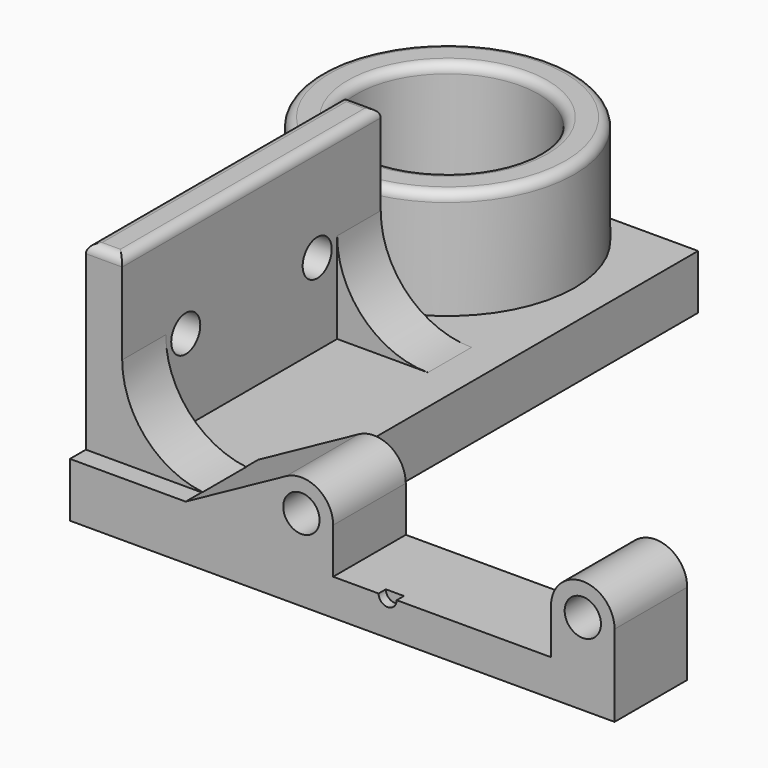
from build123d import *

# Parameters (mm, degrees)
SKETCH_R        = 2
PAD_DEPTH       = 10
POCKET004_DEPTH = 1
SKETCH002_W     = 18
SKETCH002_H     = 6
PAD002_DEPTH    = 54
POCKET005_DEPTH = 1
SKETCH003_R     = 14
PAD003_DEPTH    = 18
SKETCH004_R     = 10
POCKET_DEPTH    = 18.001
SKETCH001_W     = 4
SKETCH001_H     = 20
PAD001_DEPTH    = 35.6
SKETCH005_R     = 2
POCKET001_DEPTH = 4
SKETCH006_R     = 2
POCKET002_DEPTH = 4
PAD004_DEPTH    = 6
PAD005_DEPTH    = 6
FILLET_R        = 1


with BuildPart() as part:
    # Sketch → Pad (new body)
    with BuildSketch(Plane.XZ):
        with BuildLine():
            Line((60, 0), (0, 0))
            Line((0, 0), (0, 6))
            Line((12.75, 6), (0, 6))
            Line((12.75, 6), (23.817129, 12.068867))
            ThreePointArc((29, 9), (27.283249, 12.011648), (23.817129, 12.068867))
            Line((29, 9), (29, 4))
            Line((29, 4), (53, 4))
            Line((53, 9), (53, 4))
            ThreePointArc((60, 9), (56.5, 12.5), (53, 9))
            Line((60, 9), (60, 0))
        make_face()
        with Locations((56.5, 9)):
            Circle(SKETCH_R, mode=Mode.SUBTRACT)
        with Locations((25.5, 9)):
            Circle(SKETCH_R, mode=Mode.SUBTRACT)
    extrude(amount=PAD_DEPTH)

    # Sketch007 (on Face14 of Pad) → Pocket004 (cut)
    with BuildSketch(Plane.XZ.offset(10)):
        with BuildLine():
            ThreePointArc((34, 4), (35, 3), (36, 4))
            Line((34, 4), (36, 4))
        make_face()
    extrude(amount=-POCKET004_DEPTH, mode=Mode.SUBTRACT)

    # Sketch002 (on Face13 of Pad) → Pad002 (join)
    with BuildSketch(Plane(origin=(0, 0, 0), x_dir=(1, 0, 0), z_dir=(0, 1, 0))):
        with Locations((9, -3)):
            Rectangle(SKETCH002_W, SKETCH002_H)
    extrude(amount=PAD002_DEPTH)

    # Sketch008 (on Face19 of Pad002) → Pocket005 (cut)
    with BuildSketch(Plane(origin=(0, 0, 0), x_dir=(0, 0, -1), z_dir=(-1, 0, 0))):
        with BuildLine():
            Line((-6, -9), (-6, -11))
            ThreePointArc((-6, -11), (-5, -10), (-6, -9))
        make_face()
    extrude(amount=-POCKET005_DEPTH, mode=Mode.SUBTRACT)

    # Sketch003 (on Face21 of Pad002) → Pad003 (join)
    with BuildSketch(Plane(origin=(0, 0, 0), x_dir=(1, 0, 0), z_dir=(0, 0, -1))):
        with Locations((0, -42)):
            Circle(SKETCH003_R)
    extrude(amount=-PAD003_DEPTH)

    # Sketch004 (on Face21 of Pad002) → Pocket (cut, through all)
    with BuildSketch(Plane(origin=(0, 0, 0), x_dir=(1, 0, 0), z_dir=(0, 0, -1))):
        with Locations((0, -42)):
            Circle(SKETCH004_R)
    extrude(amount=-POCKET_DEPTH, mode=Mode.SUBTRACT)

    # Sketch001 (on Face14 of Pad) → Pad001 (join)
    with BuildSketch(Plane.XZ.offset(7.8)):
        with Locations((2, 16)):
            Rectangle(SKETCH001_W, SKETCH001_H)
    extrude(amount=-PAD001_DEPTH)

    # Sketch005 (on Face26 of Pad001) → Pocket001 (cut)
    with BuildSketch(Plane(origin=(0, 0, 0), x_dir=(0, 0, -1), z_dir=(-1, 0, 0))):
        with Locations((-15, -0.95)):
            Circle(SKETCH005_R)
    extrude(amount=-POCKET001_DEPTH, mode=Mode.SUBTRACT)

    # Sketch006 (on Face26 of Pad001) → Pocket002 (cut)
    with BuildSketch(Plane(origin=(0, 0, 0), x_dir=(0, 0, -1), z_dir=(-1, 0, 0))):
        with Locations((-15, -19.05)):
            Circle(SKETCH006_R)
    extrude(amount=-POCKET002_DEPTH, mode=Mode.SUBTRACT)

    # Sketch009 (on Face25 of Pad001) → Pad004 (join)
    with BuildSketch(Plane.XZ.offset(7.8)):
        with BuildLine():
            Line((4, 16), (4, 6))
            Line((4, 6), (14, 6))
            ThreePointArc((4, 16), (6.928932, 8.928932), (14, 6))
        make_face()
    extrude(amount=-PAD004_DEPTH)

    # Sketch010 (on Face20 of Pad001) → Pad005 (join)
    with BuildSketch(Plane(origin=(0, 27.8, 0), x_dir=(1, 0, 0), z_dir=(0, 1, 0))):
        with BuildLine():
            Line((4, -16), (4, -6))
            Line((4, -6), (13.999971, -6))
            ThreePointArc((13.999971, -6), (6.928922, -8.928942), (4, -16))
        make_face()
    extrude(amount=-PAD005_DEPTH)

    # Fillet
    fillet_edges = [part.edges().sort_by_distance(p)[0] for p in [
        (4, 10, 26),
        (0, 10, 26),
        (2, -7.8, 26),
        (2, 27.8, 26),
        (-14, 42, 18),
        (-10, 42, 18),
    ]]
    fillet(fillet_edges, radius=FILLET_R)


solid = part.part
